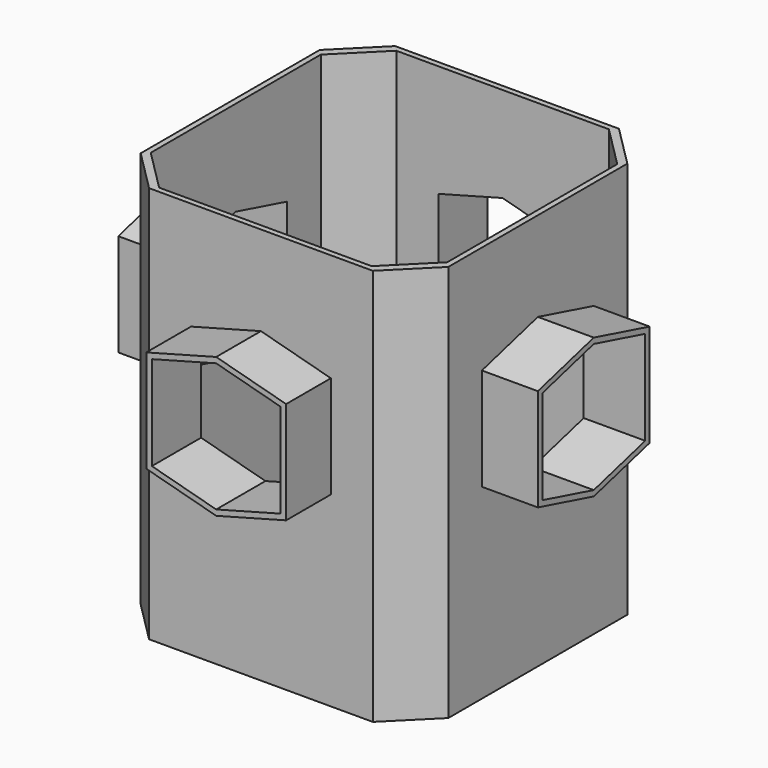
from build123d import *

# Parameters (mm, degrees)
PAD002_DEPTH          = 100
POLARPATTERN001_COUNT = 4
SKETCH_W              = 110
SKETCH_H              = 110
PAD_DEPTH             = 2
SKETCH001_W           = 110
SKETCH001_H           = 110
SKETCH001_W_2         = 106
SKETCH001_H_2         = 106
PAD001_DEPTH          = 140
PAD003_DEPTH          = 20
POLARPATTERN_COUNT    = 4
CHAMFER_SIZE          = 15


with BuildPart() as body001:
    # Sketch003 → Pad002 (new body)
    with BuildSketch(Plane.XZ):
        Polygon((-23, 68.162831), (-23, 101.837169), (0, 108), (23, 101.837169), (23, 68.162831), (0, 62), align=None)
    pad002 = extrude(amount=PAD002_DEPTH)

    # PolarPattern001: Pad002 ×4 about axis
    polarpattern001_axis = Axis((0, 0, 0), (0, 0, 1))
    for i in range(1, POLARPATTERN001_COUNT):
        add(pad002.rotate(polarpattern001_axis, i * 360 / POLARPATTERN001_COUNT))


with BuildPart() as chamfer_body:
    # Sketch → Pad (new body)
    with BuildSketch(Plane.XY):
        Rectangle(SKETCH_W, SKETCH_H)
    extrude(amount=PAD_DEPTH)

    # Sketch001 (on Face6 of Pad) → Pad001 (join)
    with BuildSketch(Plane.XY.offset(2)):
        Rectangle(SKETCH001_W, SKETCH001_H)
        Rectangle(SKETCH001_W_2, SKETCH001_H_2, mode=Mode.SUBTRACT)
    extrude(amount=PAD001_DEPTH)

    # Sketch002 (on Face10 of Pad001) → Pad003 (join)
    with BuildSketch(Plane.XZ.offset(55)):
        Polygon((-25, 66.69873), (0, 60), (25, 66.69873), (25, 103.30127), (0, 110), (-25, 103.30127), align=None)
    pad003 = extrude(amount=PAD003_DEPTH)

    # PolarPattern: Pad003 ×4 about axis
    polarpattern_axis = Axis((0, 0, 0), (0, 0, 1))
    for i in range(1, POLARPATTERN_COUNT):
        add(pad003.rotate(polarpattern_axis, i * 360 / POLARPATTERN_COUNT))

    # Cut: cut Body001
    add(body001.part, mode=Mode.SUBTRACT)

    # Chamfer
    chamfer_edges = [chamfer_body.edges().sort_by_distance(p)[0] for p in [
        (-55, 55, 1),
        (55, 55, 1),
        (-55, -55, 1),
        (55, -55, 1),
        (-55, 55, 72),
        (55, 55, 72),
        (-55, -55, 72),
        (55, -55, 72),
        (-53, 53, 72),
        (53, 53, 72),
        (53, -53, 72),
        (-53, -53, 72),
    ]]
    chamfer(chamfer_edges, length=CHAMFER_SIZE)


solid = chamfer_body.part
